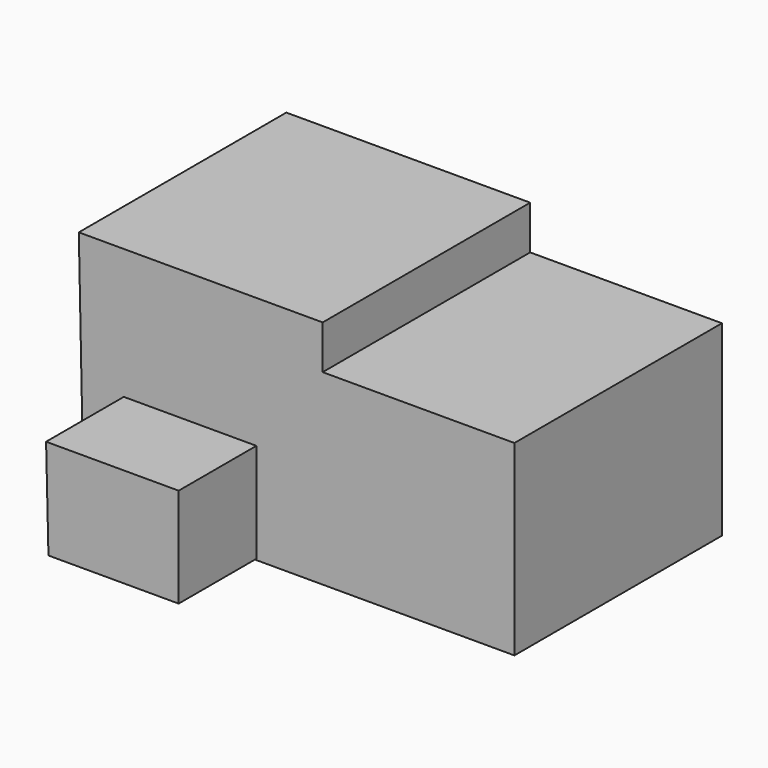
from build123d import *

# Parameters (mm, degrees)
F1_DEPTH = 67.818
F3_DEPTH = 25.4
F4_DEPTH = 9.906


with BuildPart() as f1:
    # F0 (on Front) → F1 (new body)
    with BuildSketch(Plane.XZ):
        Polygon((-50.623337, 5.684429), (-50.141662, -17.797196), (-18.398829, -17.797196), (-18.880503, 5.684429), align=None)
        Polygon((2.785649, 42.55851), (-60.974739, 42.55851), (-59.736673, -17.797196), (-50.141662, -17.797196), (-50.623337, 5.684429), (-18.880503, 5.684429), (-18.398829, -17.797196), (-9.904526, -17.797196), (0, -17.797196), (52.927312, -17.797196), (52.927312, 31.106403), (2.785649, 31.106403), align=None)
    extrude(amount=-F1_DEPTH)

    # F2 (on Front) → F3 (join)
    with BuildSketch(Plane.XZ):
        Polygon((-14.547274, 8.511703), (-49.213115, 8.511703), (-48.594084, -17.487679), (-14.547274, -17.487679), align=None)
    extrude(amount=F3_DEPTH)

    # F1_face (on face) → F4 (join)
    with BuildSketch(Plane(origin=(-2.431348, 0, 12.63539), x_dir=(1, 0, 0), z_dir=(0, -1, 0))):
        Polygon((-57.305325, -30.432587), (55.358659, -30.432587), (55.358659, 18.471013), (5.216997, 18.471013), (5.216997, 29.92312), (-58.543392, 29.92312), align=None)
        Polygon((-46.781767, -4.123688), (-12.115926, -4.123688), (-12.115926, -30.123069), (-46.162736, -30.123069), align=None, mode=Mode.SUBTRACT)
    extrude(amount=-F4_DEPTH)


solid = f1.part
